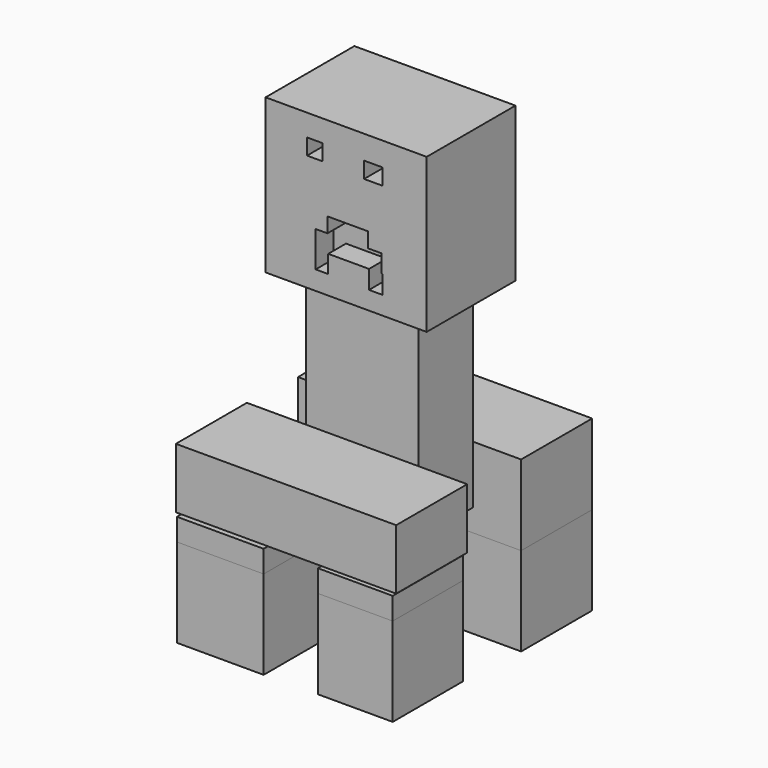
from build123d import *

# Parameters (mm, degrees)
F0_W      = 133.5632354021
F0_H      = 176.386937499
F1_DEPTH  = 25.4
F2_W      = 17.6135022193
F2_H      = 18.3222442865
F2_W_2    = 20.9542885423
F2_H_2    = 18.5167938471
F3_DEPTH  = 25.4
F4_W      = 46.4338213205
F4_H      = 17.1390213072
F5_DEPTH  = 25.4
F6_W      = 133.5632354021
F6_H      = 176.386937499
F7_DEPTH  = 101.6
F8_W      = 77.5779262185
F8_H      = 77.8235793114
F9_DEPTH  = 25.4
F10_DEPTH = 203.2
F11_W     = 127
F11_H     = 176.386937499
F12_DEPTH = 25.4
F13_W     = 127
F13_H     = 176.386937499
F14_DEPTH = 25.4
F15_W     = 77.8235793114
F15_H     = 228.6
F16_DEPTH = 25.4
F17_W     = 77.8235793114
F17_H     = 228.6
F18_DEPTH = 25.4
F19_W     = 255.3215101361
F19_H     = 66.4603160381
F20_DEPTH = 101.6
F21_W     = 252.1445453167
F21_H     = 68.9742416143
F22_DEPTH = 101.6
F24_DEPTH = 25.4
F25_DEPTH = 101.6


with BuildPart() as f1:
    # F0 (on Front) → F1 (new body)
    with BuildSketch(Plane.XZ):
        with Locations((66.7816177011, 88.1934687495)):
            Rectangle(F0_W, F0_H)
    extrude(amount=F1_DEPTH)

    # F2 (on face) → F3 (cut)
    with BuildSketch(Plane.XZ.offset(25.4)):
        with Locations((30.893410556, 142.2838047147)):
            Rectangle(F2_W, F2_H)
        with Locations((97.8064127266, 140.0636956096)):
            Rectangle(F2_W_2, F2_H_2)
        Polygon((46.2829731405, 62.3850859702), (31.936828047, 62.3850859702), (31.936828047, 21.6817818582), (46.2829731405, 21.6817818582), (46.2829731405, 42.0334339142), align=None)
        Polygon((107.1797758341, 62.3850859702), (46.2829731405, 62.3850859702), (46.2829731405, 42.0334339142), (92.9804593325, 42.0334339142), (107.1797758341, 42.0334339142), align=None)
        Polygon((107.1797758341, 42.0334339142), (92.9804593325, 42.0334339142), (92.9804593325, 20.8803080022), (108.4958016872, 20.8803080022), (108.4958016872, 42.0334339142), align=None)
    extrude(amount=-F3_DEPTH, mode=Mode.SUBTRACT)

    # F4 (on face) → F5 (cut)
    with BuildSketch(Plane.XZ.offset(25.4)):
        with Locations((68.6374306679, 70.9545966238)):
            Rectangle(F4_W, F4_H)
    extrude(amount=-F5_DEPTH, mode=Mode.SUBTRACT)

    # F6 (on face) → F7 (join)
    with BuildSketch(Plane(origin=(0, 0, 0), x_dir=(-1, 0, 0), z_dir=(0, 1, 0))):
        with Locations((-66.7816177011, 88.1934687495)):
            Rectangle(F6_W, F6_H)
    extrude(amount=F7_DEPTH)

    # F8 (on face) → F9 (join)
    with BuildSketch(Plane(origin=(0, 0, 0), x_dir=(1, 0, 0), z_dir=(0, 0, -1))):
        with Locations((64.9688206613, -38.9117896557)):
            Rectangle(F8_W, F8_H)
    extrude(amount=F9_DEPTH)

    # F10 (add): a face of the model
    f10_faces = [f1.faces().sort_by_distance(p)[0] for p in [
        (64.9688206613, 38.9117896557, -25.4),
    ]]
    extrude(f10_faces, amount=F10_DEPTH)

    # F11 (on face) → F12 (join)
    with BuildSketch(Plane.YZ.offset(133.5632354021)):
        with Locations((38.1, 88.1934687495)):
            Rectangle(F11_W, F11_H)
    extrude(amount=F12_DEPTH)

    # F13 (on face) → F14 (join)
    with BuildSketch(Plane(origin=(0, 0, 0), x_dir=(0, -1, 0), z_dir=(-1, 0, 0))):
        with Locations((-38.1, 88.1934687495)):
            Rectangle(F13_W, F13_H)
    extrude(amount=F14_DEPTH)

    # F15 (on face) → F16 (join)
    with BuildSketch(Plane.YZ.offset(103.7577837706)):
        with Locations((38.9117896557, -114.3)):
            Rectangle(F15_W, F15_H)
    extrude(amount=F16_DEPTH)

    # F17 (on face) → F18 (join)
    with BuildSketch(Plane(origin=(26.1798575521, 0, 0), x_dir=(0, -1, 0), z_dir=(-1, 0, 0))):
        with Locations((-38.9117896557, -114.3)):
            Rectangle(F17_W, F17_H)
    extrude(amount=F18_DEPTH)

    # F19 (on face) → F20 (join)
    with BuildSketch(Plane(origin=(0, 77.8235793114, 0), x_dir=(-1, 0, 0), z_dir=(0, 1, 0))):
        with Locations((-56.8195097148, -195.3698419809)):
            Rectangle(F19_W, F19_H)
    extrude(amount=F20_DEPTH)

    # F21 (on face) → F22 (join)
    with BuildSketch(Plane.XZ):
        with Locations((58.9327961206, -189.7357627749)):
            Rectangle(F21_W, F21_H)
    extrude(amount=F22_DEPTH)

    # F23 (on face) → F24 (join)
    with BuildSketch(Plane(origin=(0, 0, -228.6), x_dir=(1, 0, 0), z_dir=(0, 0, -1))):
        Polygon((184.4802647829, -77.8235793114), (129.1577837706, -77.8235793114), (93.3377295732, -77.8235793114), (93.3377295732, -179.4235793114), (184.4802647829, -179.4235793114), align=None)
        Polygon((33.0623611808, -77.8235793114), (0.7798575521, -77.8235793114), (-70.8412453532, -77.8235793114), (-70.8412453532, -179.4235793114), (33.0623611808, -179.4235793114), align=None)
        Polygon((0.7798575521, 0), (33.0623611808, 0), (33.0623611808, 101.2079268694), (-66.15203619, 101.2079268694), (-66.15203619, 0), align=None)
        Polygon((180.0081729889, 0), (180.0081729889, 100.274309516), (94.3664237857, 100.274309516), (94.3664237857, 0), (129.1577837706, 0), align=None)
    extrude(amount=F24_DEPTH)


with BuildPart() as f25:
    # F25 (new): a face of the model
    f25_faces = [f1.part.faces().sort_by_distance(p)[0] for p in [
        (137.1872983873, -50.137154758, -254),
    ]]
    extrude(f25_faces, amount=F25_DEPTH)


with BuildPart() as f25b:
    # F25#2 (new): a face of the model
    f25_2_faces = [f1.part.faces().sort_by_distance(p)[0] for p in [
        (-16.5448375046, -50.6039634347, -254),
    ]]
    extrude(f25_2_faces, amount=F25_DEPTH)


with BuildPart() as f25c:
    # F25#3 (new): a face of the model
    f25_3_faces = [f1.part.faces().sort_by_distance(p)[0] for p in [
        (-18.8894420862, 128.6235793114, -254),
    ]]
    extrude(f25_3_faces, amount=F25_DEPTH)


with BuildPart() as f25d:
    # F25#4 (new): a face of the model
    f25_4_faces = [f1.part.faces().sort_by_distance(p)[0] for p in [
        (138.9089971781, 128.6235793114, -254),
    ]]
    extrude(f25_4_faces, amount=F25_DEPTH)


solid = Compound([f1.part, f25.part, f25b.part, f25c.part, f25d.part])
